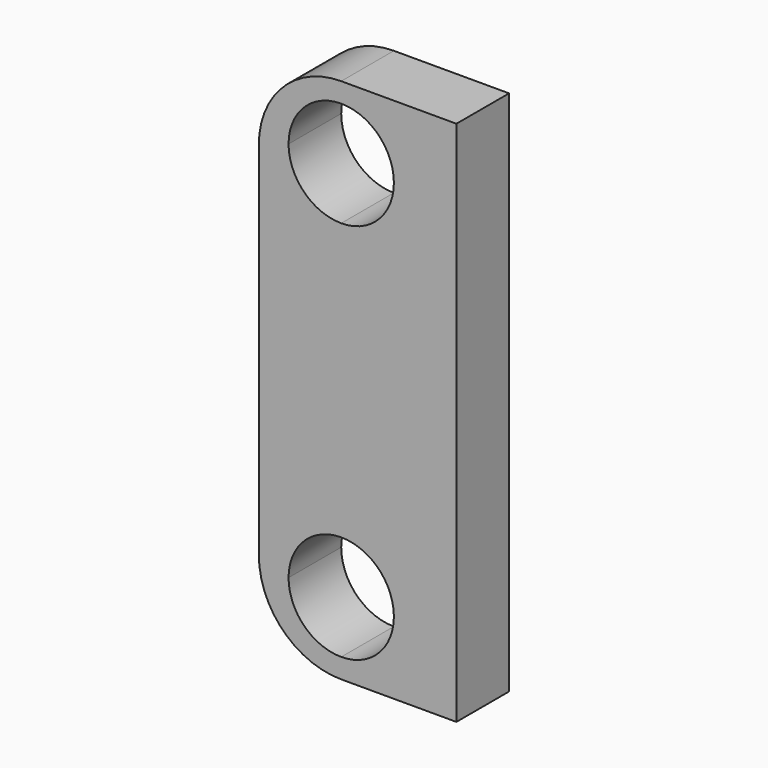
from build123d import *

# Parameters (mm, degrees)
F1_DEPTH = 10


with BuildPart() as f1:
    # F0 (on Front) → F1 (new body)
    with BuildSketch(Plane.XZ):
        with BuildLine():
            Line((-2.5, -40), (15, -40))
            Line((15, -40), (15, -29))
            Line((15, -29), (5.5, -29))
            ThreePointArc((5.5, -29), (3.156854, -34.656854), (-2.5, -37))
            Line((-2.5, -37), (-2.5, -40))
        make_face()
        with BuildLine():
            ThreePointArc((-14.909674, -29), (-10.791562, -36.854143), (-2.5, -40))
            Line((-2.5, -40), (-2.5, -37))
            ThreePointArc((-2.5, -37), (-8.156854, -34.656854), (-10.5, -29))
            Line((-10.5, -29), (-14.909674, -29))
        make_face()
        with BuildLine():
            Line((5.5, -29), (15, -29))
            Line((15, -29), (15, 29))
            Line((15, 29), (5.5, 29))
            ThreePointArc((5.5, 29), (3.156854, 23.343146), (-2.5, 21))
            Line((-2.5, 21), (-2.5, -21))
            ThreePointArc((-2.5, -21), (3.156854, -23.343146), (5.5, -29))
        make_face()
        with BuildLine():
            ThreePointArc((-15, -27.5), (-14.977398, -28.251359), (-14.909674, -29))
            Line((-14.909674, -29), (-10.5, -29))
            ThreePointArc((-10.5, -29), (-8.156854, -23.343146), (-2.5, -21))
            Line((-2.5, -21), (-2.5, 21))
            ThreePointArc((-2.5, 21), (-8.156854, 23.343146), (-10.5, 29))
            Line((-10.5, 29), (-14.909674, 29))
            ThreePointArc((-14.909674, 29), (-14.977398, 28.251359), (-15, 27.5))
            Line((-15, 27.5), (-15, -27.5))
        make_face()
        with BuildLine():
            Line((5.5, 29), (15, 29))
            Line((15, 29), (15, 40))
            Line((15, 40), (-2.5, 40))
            Line((-2.5, 40), (-2.5, 37))
            ThreePointArc((-2.5, 37), (3.156854, 34.656854), (5.5, 29))
        make_face()
        with BuildLine():
            Line((-2.5, 37), (-2.5, 40))
            ThreePointArc((-2.5, 40), (-10.791562, 36.854143), (-14.909674, 29))
            Line((-14.909674, 29), (-10.5, 29))
            ThreePointArc((-10.5, 29), (-8.156854, 34.656854), (-2.5, 37))
        make_face()
    extrude(amount=F1_DEPTH)


solid = f1.part
